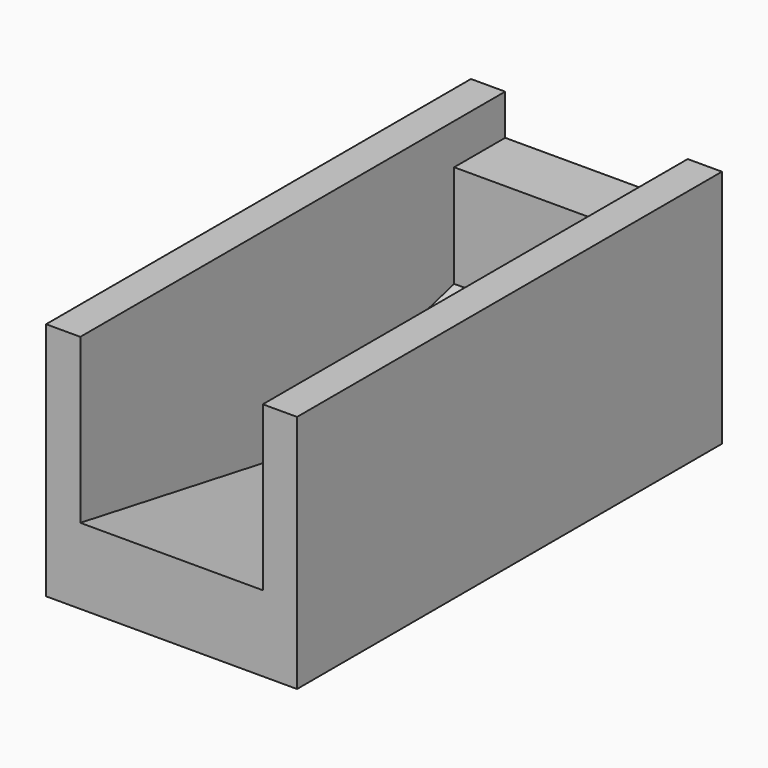
from build123d import *

# Parameters (mm, degrees)
F1_DEPTH = 16.933333
F2_W     = 49.271976
F2_H     = 22.225
F3_DEPTH = 3.175
F4_W     = 49.271976
F4_H     = 22.225
F5_DEPTH = 3.175


with BuildPart() as f1:
    # F0 (on Right) → F1 (new body)
    with BuildSketch(Plane.YZ):
        Polygon((21.467701, 5.752253), (0, 0), (-21.887352, 3.859331), (-21.887352, -3.175847), (27.384624, -3.175847), (27.384624, 15.277253), (21.467701, 15.277253), align=None)
    extrude(amount=F1_DEPTH)

    # F2 (on Right) → F3 (join)
    with BuildSketch(Plane.YZ):
        with Locations((2.748636, 7.936653)):
            Rectangle(F2_W, F2_H)
    extrude(amount=-F3_DEPTH)

    # F4 (on face) → F5 (join)
    with BuildSketch(Plane.YZ.offset(16.933333)):
        with Locations((2.748636, 7.936653)):
            Rectangle(F4_W, F4_H)
    extrude(amount=F5_DEPTH)


solid = f1.part
